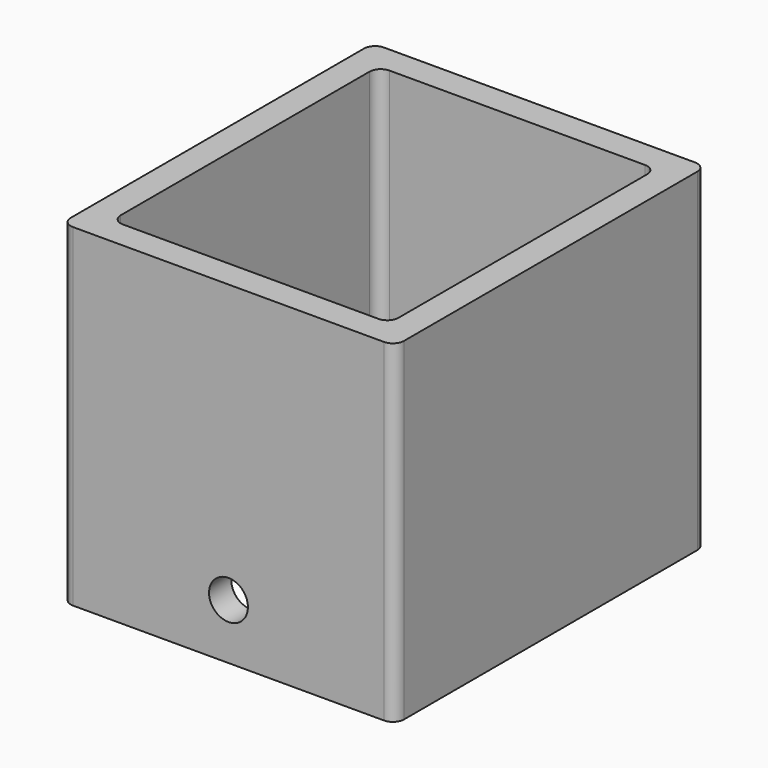
from build123d import *

# Parameters (mm, degrees)
F0_W     = 60
F0_H     = 70
F0_W_2   = 50
F0_H_2   = 60
F1_DEPTH = 60
F2_R     = 2
F3_R     = 3.5
F4_DEPTH = 70


with BuildPart() as f1:
    # F0 (on Top) → F1 (new body)
    with BuildSketch(Plane.XY):
        Rectangle(F0_W, F0_H)
        Rectangle(F0_W_2, F0_H_2, mode=Mode.SUBTRACT)
    extrude(amount=F1_DEPTH)

    # F2
    f2_edges = [f1.edges().sort_by_distance(p)[0] for p in [
        (-30, 35, 30),
        (30, 35, 30),
        (30, -35, 30),
        (-30, -35, 30),
        (-25, 30, 30),
        (25, 30, 30),
        (25, -30, 30),
        (-25, -30, 30),
    ]]
    fillet(f2_edges, radius=F2_R)

    # F3 (on face) → F4 (cut)
    with BuildSketch(Plane(origin=(0, 35, 0), x_dir=(-1, 0, 0), z_dir=(0, 1, 0))):
        with Locations((0, 10)):
            Circle(F3_R)
    extrude(amount=-F4_DEPTH, mode=Mode.SUBTRACT)


solid = f1.part
